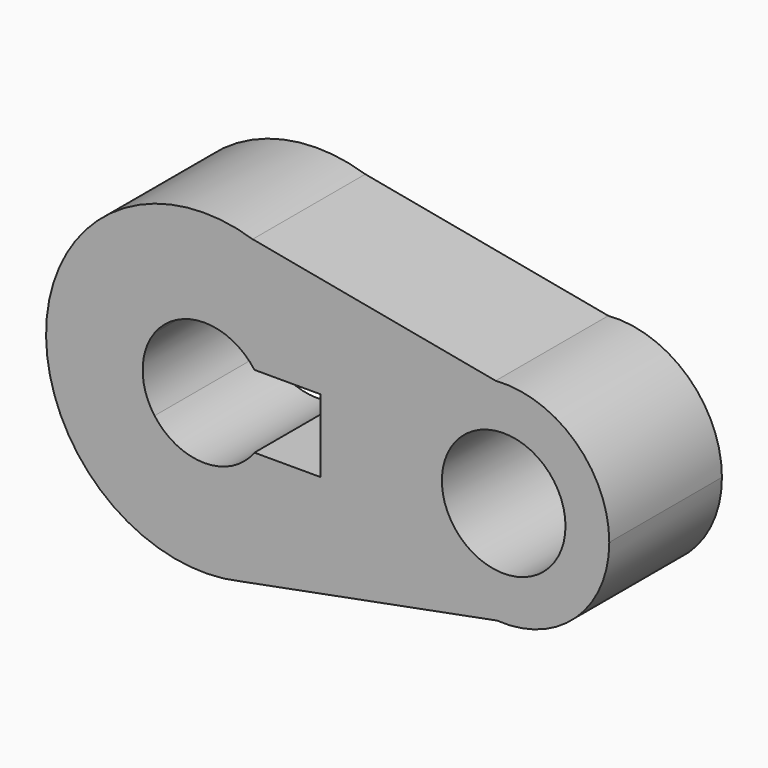
from build123d import *

# Parameters (mm, degrees)
F0_R     = 11.151047
F1_DEPTH = 25.4


with BuildPart() as f1:
    # F0 (on Front) → F1 (new body)
    with BuildSketch(Plane.XZ):
        with BuildLine():
            ThreePointArc((6.467178, -27.833545), (22.375547, -17.772605), (28.575, 0))
            ThreePointArc((28.575, 0), (23.076019, 16.853129), (8.695527, 27.219817))
            ThreePointArc((8.695527, 27.219817), (-28.551621, 1.15566), (6.467178, -27.833545))
        make_face()
        with BuildLine():
            ThreePointArc((-9.006877, 6.574345), (0, 11.151047), (9.006877, 6.574345))
            Line((9.006877, 6.574345), (20.940501, 6.574345))
            Line((20.940501, 6.574345), (20.940501, -6.574345))
            Line((20.940501, -6.574345), (9.006877, -6.574345))
            ThreePointArc((9.006877, -6.574345), (0, -11.151047), (-9.006877, -6.574345))
            Line((-9.006877, -6.574345), (-20.940501, -6.574345))
            Line((-20.940501, -6.574345), (-20.940501, 6.574345))
            Line((-20.940501, 6.574345), (-9.006877, 6.574345))
        make_face(mode=Mode.SUBTRACT)
        with BuildLine():
            ThreePointArc((-9.006877, -6.574345), (-11.151047, 0), (-9.006877, 6.574345))
            Line((-9.006877, 6.574345), (-20.940501, 6.574345))
            Line((-20.940501, 6.574345), (-20.940501, -6.574345))
            Line((-20.940501, -6.574345), (-9.006877, -6.574345))
        make_face()
        with BuildLine():
            ThreePointArc((8.695527, 27.219817), (23.076019, 16.853129), (28.575, 0))
            ThreePointArc((28.575, 0), (22.375547, -17.772605), (6.467178, -27.833545))
            Line((6.467178, -27.833545), (52.769401, -19.011813))
            ThreePointArc((52.769401, -19.011813), (34.925403, -0.123852), (52.522301, 18.99453))
            Line((52.522301, 18.99453), (8.695527, 27.219817))
        make_face()
        with BuildLine():
            ThreePointArc((73.025, 0), (66.921594, 13.974556), (52.522301, 18.99453))
            ThreePointArc((52.522301, 18.99453), (34.925403, -0.123852), (52.769401, -19.011813))
            ThreePointArc((52.769401, -19.011813), (67.012174, -13.890089), (73.025, 0))
        make_face()
        with Locations((53.975, 0)):
            Circle(F0_R, mode=Mode.SUBTRACT)
    extrude(amount=F1_DEPTH)


solid = f1.part
